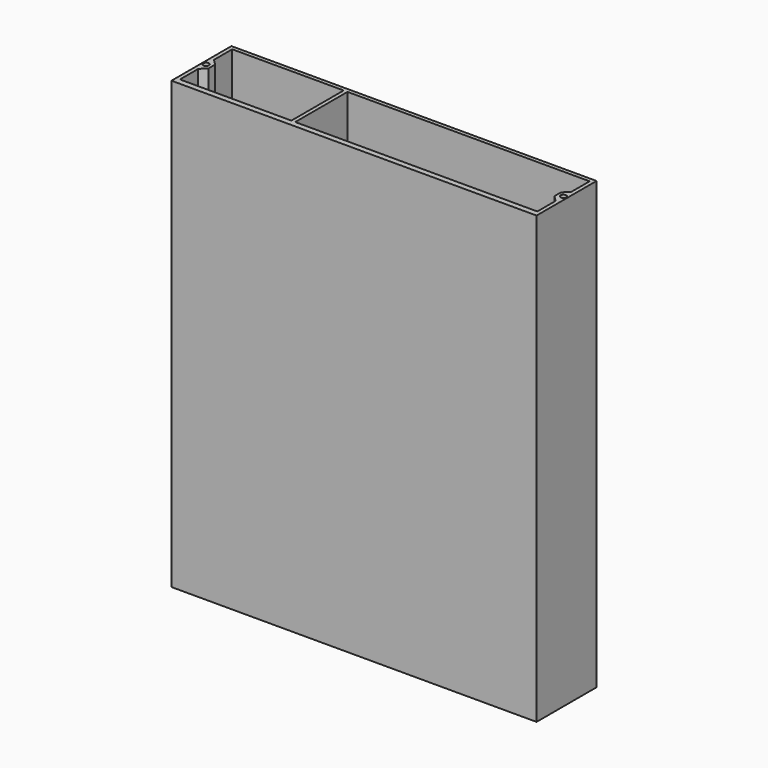
from build123d import *

# Parameters (mm, degrees)
F0_W     = 190
F0_H     = 39
F0_R     = 1.5
F1_DEPTH = 232
F2_W     = 2
F2_H     = 187
F2_H_2   = 2
F2_W_2   = 30
F3_DEPTH = 39
F4_W     = 160
F4_H     = 22
F5_DEPTH = 5
F6_R     = 10


with BuildPart() as f1:
    # F0 (on Top) → F1 (new body)
    with BuildSketch(Plane.XY):
        with Locations((95, 19.5)):
            Rectangle(F0_W, F0_H)
        with Locations((2, 20)):
            Circle(F0_R, mode=Mode.SUBTRACT)
        Polygon((188, 3), (2, 3), (2, 14.8786796564), (5, 17.8786796564), (5, 22.1213203436), (2, 25.1213203436), (2, 37), (188, 37), (188, 25.1213203436), (185, 22.1213203436), (185, 17.8786796564), (188, 14.8786796564), align=None, mode=Mode.SUBTRACT)
        with Locations((188, 20)):
            Circle(F0_R, mode=Mode.SUBTRACT)
    extrude(amount=F1_DEPTH)

    # F2 (on face) → F3 (join)
    with BuildSketch(Plane.XZ):
        with Locations((61, 138.5)):
            Rectangle(F2_W, F2_H)
        with Locations((61, 44)):
            Rectangle(F2_W, F2_H_2)
        with Locations((77, 44)):
            Rectangle(F2_W_2, F2_H_2)
    extrude(amount=-F3_DEPTH)

    # F4 (on face) → F5 (cut)
    with BuildSketch(Plane(origin=(0, 39, 0), x_dir=(-1, 0, 0), z_dir=(0, 1, 0))):
        Polygon((-95, 37), (-175, 22), (-15, 22), align=None)
        with Locations((-95, 11)):
            Rectangle(F4_W, F4_H)
    extrude(amount=-F5_DEPTH, mode=Mode.SUBTRACT)

    # F6
    f6_edges = [f1.edges().sort_by_distance(p)[0] for p in [
        (175, 38, 22),
        (15, 38, 22),
        (95, 38, 37),
    ]]
    fillet(f6_edges, radius=F6_R)


solid = f1.part
